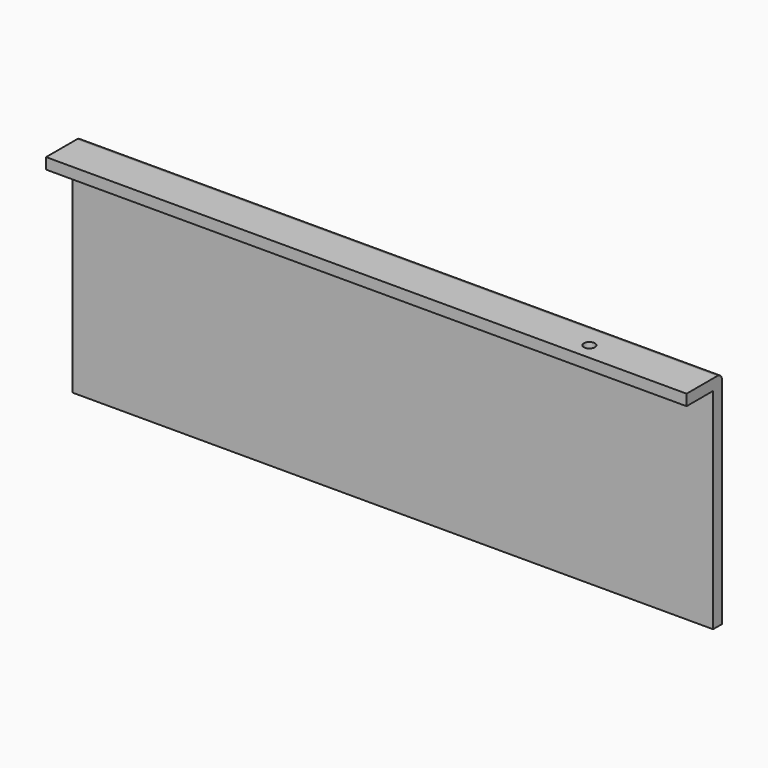
from build123d import *

# Parameters (mm, degrees)
F0_W     = 58
F0_H     = 20
F1_DEPTH = 4
F2_T     = -1
F3_W     = 1
F3_H     = 18
F4_DEPTH = 3
F5_R     = 0.5
F7_D     = 1
F7_DEPTH = 1


with BuildPart() as f1:
    # F0 (on Front) → F1 (new body)
    with BuildSketch(Plane.XZ):
        with Locations((9.587663, 9.659091)):
            Rectangle(F0_W, F0_H)
    extrude(amount=F1_DEPTH)

    # F2
    f2_openings = [f1.faces().sort_by_distance(p)[0] for p in [
        (9.587663, -4, 9.659091),
    ]]
    offset(amount=F2_T, openings=f2_openings)

    # F3 (on face) → F4 (cut)
    with BuildSketch(Plane.XZ.offset(4)):
        with Locations((-18.912337, 9.659091)):
            Rectangle(F3_W, F3_H)
        Polygon((38.587663, 0.659091), (37.587663, 0.659091), (-18.412337, 0.659091), (-19.412337, 0.659091), (-19.412337, -0.340909), (38.587663, -0.340909), align=None)
        with Locations((38.087663, 9.659091)):
            Rectangle(F3_W, F3_H)
    extrude(amount=-F4_DEPTH, mode=Mode.SUBTRACT)

    # F5
    f5_edges = [f1.edges().sort_by_distance(p)[0] for p in [
        (9.587663, 0, 19.659091),
    ]]
    fillet(f5_edges, radius=F5_R)

    # F7
    with Locations(Plane.XY.offset(19.659091)):
        with Locations((28.587663, -2.5)):
            Hole(F7_D / 2, depth=F7_DEPTH)


solid = f1.part
